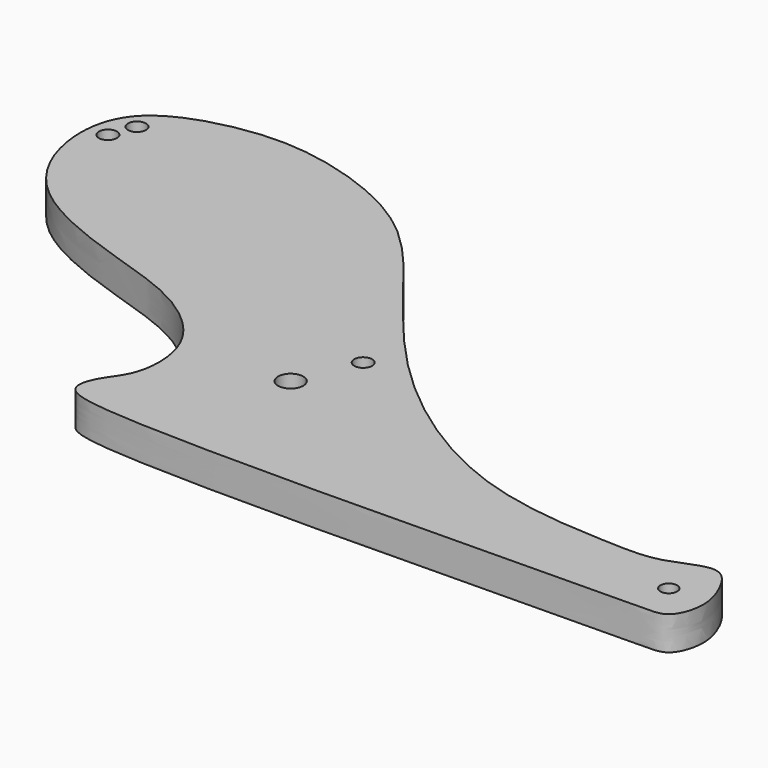
from build123d import *

# Parameters (mm, degrees)
F0_R     = 2.25
F0_R_2   = 1.6058753571
F0_R_3   = 1.5
F1_DEPTH = 6


with BuildPart() as f1:
    # F0 (on Top) → F1 (new body)
    with BuildSketch(Plane.XY):
        with BuildLine():
            add(Edge.make_bspline(
                [(105.512660726, 0), (110.4638262541, 0.0037398958), (113.3237819686, -0.2425988318), (115.3996059528, 5.890744925), (113.7850095035, 11.2813727542), (110.0762069943, 16.9899015313), (102.0350342344, 12.1466025871), (92.1826886053, 12.4914778104), (67.4708678294, 13.5485891955), (39.8272474197, 32.172952351), (22.5772833457, 54.5722554746), (9.2928269645, 71.3992558612), (-11.1598370214, 78.6921854261), (-25.446523864, 78.5659244567), (-40.7818605775, 73.3629802285), (-42.9850302746, 59.7515888538), (-35.7379069531, 43.9870281384), (-13.3519105426, 36.3771107649), (-0.0071129883, 32.1981856364), (10.2462404062, 22.8936041318), (10.2975146454, 11.2951825298), (6.3474343059, 7.1279889115), (4.6463090236, 1.9004176233), (14.5716204762, -2.2122441249), (88.4757451047, -0.0128689474), (105.512660726, 0)],
                knots=[0, 0, 0, 0, 0.0317110371, 0.0567100742, 0.0842467924, 0.1104866282, 0.1417980218, 0.1774532512, 0.2328595444, 0.2984764095, 0.3591233236, 0.4113418563, 0.462764473, 0.5062843327, 0.549318543, 0.5882322048, 0.6337451357, 0.6880546817, 0.7313609243, 0.771950275, 0.8084830547, 0.8354601074, 0.8578372284, 0.8908826092, 1, 1, 1, 1], degree=3))
        make_face()
        with Locations((27.8520043215, 22.7865202849)):
            Circle(F0_R, mode=Mode.SUBTRACT)
        with Locations((32.240881675, 33.4661149504)):
            Circle(F0_R_2, mode=Mode.SUBTRACT)
        with Locations((108.0079460577, 6.8694867865)):
            Circle(F0_R_3, mode=Mode.SUBTRACT)
        with Locations((-38.411552843, 64.8919570343)):
            Circle(F0_R_2, mode=Mode.SUBTRACT)
        with Locations((-36.7741420753, 69.3203552528)):
            Circle(F0_R_2, mode=Mode.SUBTRACT)
    extrude(amount=F1_DEPTH)


solid = f1.part
